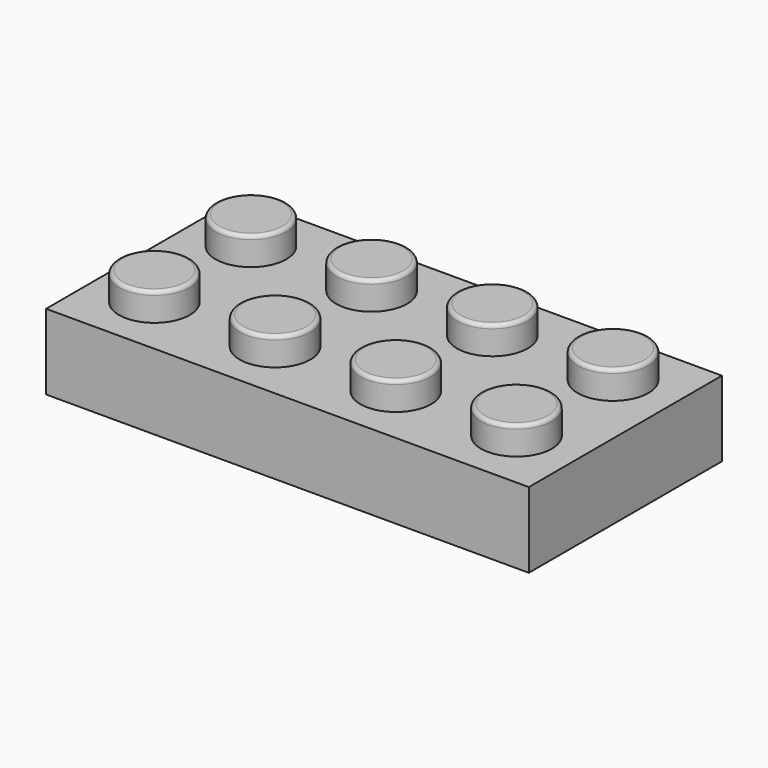
from build123d import *

# Parameters (mm, degrees)
F0_W     = 32.004
F0_H     = 16.002
F1_DEPTH = 5.0038
F2_R     = 2.3495
F3_DEPTH = 1.8542
F4_R     = 0.254
F5_W     = 29.0068
F5_H     = 13.0048
F5_R     = 3.2512
F5_R_2   = 2.4003
F6_DEPTH = 3.5052


with BuildPart() as f1:
    # F0 (on Top) → F1 (new body)
    with BuildSketch(Plane.XY):
        with Locations((-39.00943, 8.962083)):
            Rectangle(F0_W, F0_H)
    extrude(amount=F1_DEPTH)

    # F2 (on face) → F3 (join)
    with BuildSketch(Plane.XY.offset(5.0038)):
        with Locations((-51.11253, 13.064183)):
            Circle(F2_R)
        with Locations((-43.11153, 13.064183)):
            Circle(F2_R)
        with Locations((-35.11053, 13.064183)):
            Circle(F2_R)
        with Locations((-27.10953, 13.064183)):
            Circle(F2_R)
        with Locations((-27.10953, 5.063183)):
            Circle(F2_R)
        with Locations((-35.11053, 5.063183)):
            Circle(F2_R)
        with Locations((-43.11153, 5.063183)):
            Circle(F2_R)
        with Locations((-51.11253, 5.063183)):
            Circle(F2_R)
    extrude(amount=F3_DEPTH)

    # F4
    f4_edges = [f1.edges().sort_by_distance(p)[0] for p in [
        (-53.46203, 5.063183, 6.858),
        (-53.46203, 13.064183, 6.858),
        (-45.46103, 13.064183, 6.858),
        (-45.46103, 5.063183, 6.858),
        (-37.46003, 5.063183, 6.858),
        (-37.46003, 13.064183, 6.858),
        (-29.45903, 13.064183, 6.858),
        (-29.45903, 5.063183, 6.858),
    ]]
    fillet(f4_edges, radius=F4_R)

    # F5 (on face) → F6 (cut)
    with BuildSketch(Plane(origin=(0, 0, 0), x_dir=(1, 0, 0), z_dir=(0, 0, -1))):
        with Locations((-39.00943, -8.962083)):
            Rectangle(F5_W, F5_H)
        with Locations((-47.01043, -8.962083)):
            Circle(F5_R, mode=Mode.SUBTRACT)
        with Locations((-39.00943, -8.962083)):
            Circle(F5_R, mode=Mode.SUBTRACT)
        with Locations((-31.00843, -8.962083)):
            Circle(F5_R, mode=Mode.SUBTRACT)
        with Locations((-47.01043, -8.962083)):
            Circle(F5_R_2)
        with Locations((-39.00943, -8.962083)):
            Circle(F5_R_2)
        with Locations((-31.00843, -8.962083)):
            Circle(F5_R_2)
    extrude(amount=-F6_DEPTH, mode=Mode.SUBTRACT)


solid = f1.part
